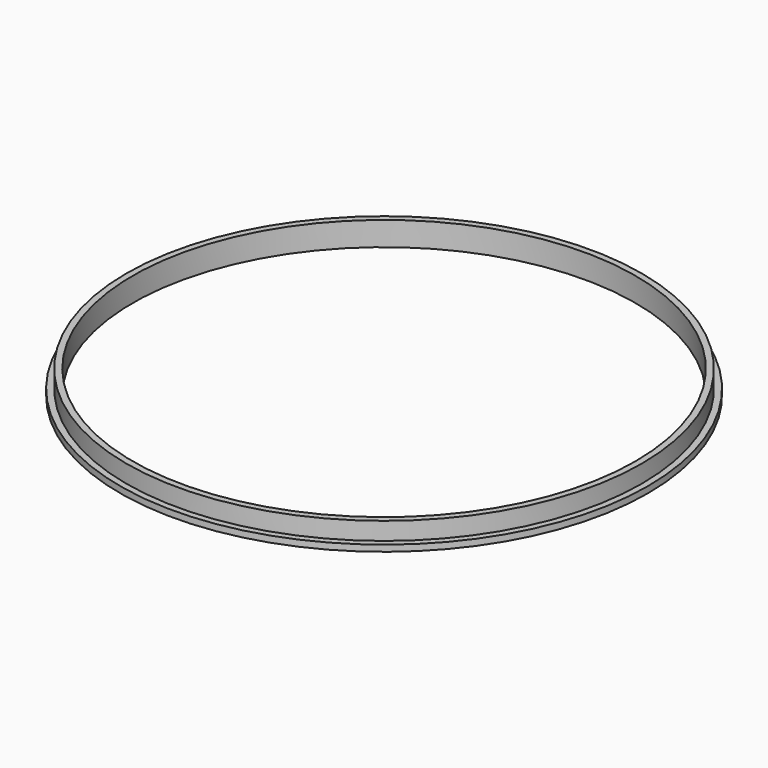
from build123d import *

# Parameters (mm, degrees)
SKETCH_R     = 20.9
PAD_DEPTH    = 0.5
SKETCH001_R  = 20.4
PAD001_DEPTH = 1.4
SKETCH002_R  = 19.9
POCKET_DEPTH = 5


with BuildPart() as part:
    # Sketch → Pad (new body)
    with BuildSketch(Plane.XY):
        Circle(SKETCH_R)
    extrude(amount=PAD_DEPTH)

    # Sketch001 (on Face3 of Pad) → Pad001 (join)
    with BuildSketch(Plane.XY.offset(0.5)):
        Circle(SKETCH001_R)
    extrude(amount=PAD001_DEPTH)

    # Sketch002 (on Face5 of Pad001) → Pocket (cut)
    with BuildSketch(Plane.XY.offset(1.9)):
        Circle(SKETCH002_R)
    extrude(amount=-POCKET_DEPTH, mode=Mode.SUBTRACT)


solid = part.part
